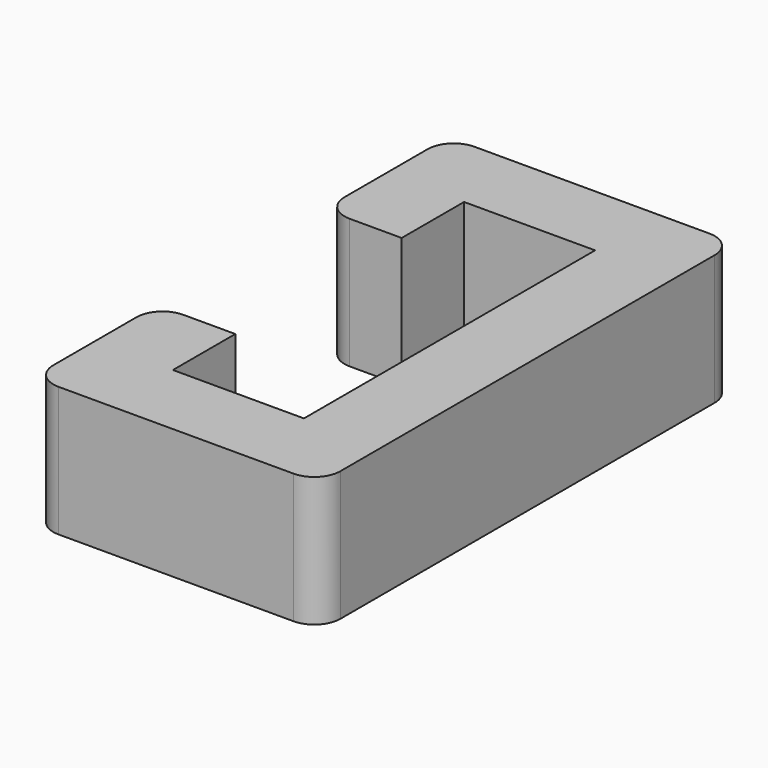
from build123d import *

# Parameters (mm, degrees)
F1_DEPTH = 25


with BuildPart() as f1:
    # F0 (on Top) → F1 (new body)
    with BuildSketch(Plane.XY):
        with BuildLine():
            Line((0, 35), (0, 0))
            Line((0, 0), (0, -35))
            Line((0, -35), (-25.2, -35))
            Line((-25.2, -35), (-25.2, -20))
            Line((-25.2, -20), (-35.2, -20))
            ThreePointArc((-35.2, -20), (-38.735534, -21.464466), (-40.2, -25))
            Line((-40.2, -25), (-40.2, -45))
            ThreePointArc((-40.2, -45), (-38.735534, -48.535534), (-35.2, -50))
            Line((-35.2, -50), (10, -50))
            ThreePointArc((10, -50), (13.535534, -48.535534), (15, -45))
            Line((15, -45), (15, 0))
            Line((15, 0), (15, 45))
            ThreePointArc((15, 45), (13.535534, 48.535534), (10, 50))
            Line((10, 50), (-35.2, 50))
            ThreePointArc((-35.2, 50), (-38.735534, 48.535534), (-40.2, 45))
            Line((-40.2, 45), (-40.2, 25))
            ThreePointArc((-40.2, 25), (-38.735534, 21.464466), (-35.2, 20))
            Line((-35.2, 20), (-25.2, 20))
            Line((-25.2, 20), (-25.2, 35))
            Line((-25.2, 35), (0, 35))
        make_face()
    extrude(amount=F1_DEPTH)


solid = f1.part
